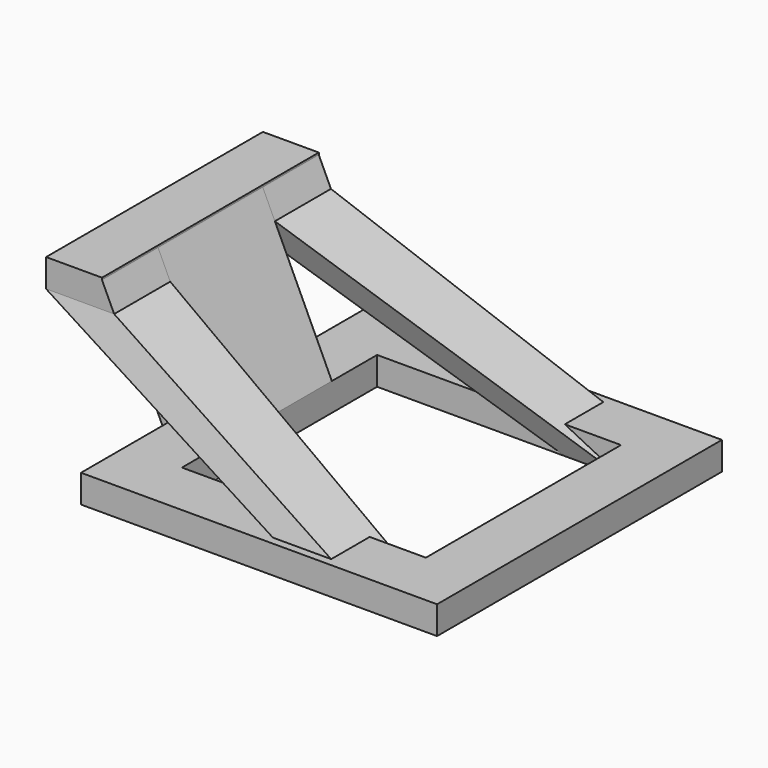
from build123d import *

# Parameters (mm, degrees)
F0_W        = 12
F0_H        = 12
F0_H_2      = 28
F1_DEPTH    = 6
F3_W        = 28
F3_H        = 35
F4_DEPTH    = 13.2
F6_W        = 11.9632627889
F6_H        = 28
F9_DEPTH    = 15
F11_DEPTH   = 15
F12_DEPTH   = 0.42144
F9_FACE_W   = 14.5645885303
F9_FACE_H   = 15
F11_FACE1_W = 14.5645885303
F11_FACE1_H = 15


with BuildPart() as f1:
    # F0 (on Top) → F1 (new body)
    with BuildSketch(Plane.XY):
        Polygon((38.1, -38.1), (38.1, 38.1), (26.1, 38.1), (26.1, 26.1), (26.1, -26.1), (26.1, -38.1), align=None)
        with Locations((20.1, 32.1)):
            Rectangle(F0_W, F0_H)
        Polygon((14.1, 26.1), (14.1, 38.1), (-13.07, 38.1), (-26.1, 38.1), (-26.1, 26.1), (-12.9487672821, 26.1), align=None)
        with Locations((20.1, -32.1)):
            Rectangle(F0_W, F0_H)
        Polygon((-13.07, -38.1), (14.1, -38.1), (14.1, -26.1), (-12.9487672821, -26.1), (-26.1, -26.1), (-26.1, -38.1), align=None)
        Polygon((-26.1, 26.1), (-26.1, 38.1), (-38.1, 38.1), (-38.1, 14), (-26.1, 14), align=None)
        Polygon((-38.1, -38.1), (-26.1, -38.1), (-26.1, -26.1), (-26.1, -14), (-38.1, -14), (-38.1, -20), (-38.1, -23), align=None)
        with Locations((-32.1, 0)):
            Rectangle(F0_W, F0_H_2)
    extrude(amount=F1_DEPTH)

    # F3 (on face) → F4 (join)
    with BuildSketch(Plane(origin=(-19.1402449771, 0, -8.9252428118), x_dir=(0, -1, 0), z_dir=(-0.906307787, 0, -0.4226182617))):
        with Locations((0, 33.9681833537)):
            Rectangle(F3_W, F3_H)
    extrude(amount=F4_DEPTH)

    # F6 (on face) → F7 (join, up to the next surface of F1)
    with BuildSketch(Plane.XY.offset(37.7207725463)):
        with Locations((-46.8732705554, 0)):
            Rectangle(F6_W, F6_H)
    extrude(until=Until.NEXT, dir=(0, 0, -1))

    # F8 (on face) → F9 (join)
    with BuildSketch(Plane(origin=(0, 14, 0), x_dir=(-1, 0, 0), z_dir=(0, 1, 0))):
        Polygon((38.2903134195, 32.1422114913), (52.8549019498, 32.1422114913), (52.8549019498, 37.7207725463), (40.8916391609, 37.7207725463), align=None)
    extrude(amount=F9_DEPTH)

    # F10 (on face) → F11 (join)
    with BuildSketch(Plane.XZ.offset(14)):
        Polygon((-52.8549019498, 37.7207725463), (-52.8549019498, 32.1422114913), (-38.2903134195, 32.1422114913), (-40.8916391609, 37.7207725463), align=None)
    extrude(amount=F11_DEPTH)

    # F12 (add): a face of the model
    f12_faces = [f1.faces().sort_by_distance(p)[0] for p in [
        (-46.8732705554, 0, 37.7207725463),
    ]]
    extrude(f12_faces, amount=F12_DEPTH)

    # F9_face (on face) → F13 section 0
    with BuildSketch(Plane(origin=(-45.5726076847, 21.5, 32.1422114913), x_dir=(1, 0, 0), z_dir=(0, 0, -1))):
        Rectangle(F9_FACE_W, F9_FACE_H)
    # F0 (on Top) → F13 section 1
    with BuildSketch(Plane.XY):
        with Locations((20.1, 32.1)):
            Rectangle(F0_W, F0_H)
    loft()

    # F11_face1 (on face) → F14 section 0
    with BuildSketch(Plane(origin=(-45.5726076847, -21.5, 32.1422114913), x_dir=(1, 0, 0), z_dir=(0, 0, -1))):
        Rectangle(F11_FACE1_W, F11_FACE1_H)
    # F0 (on Top) → F14 section 1
    with BuildSketch(Plane.XY):
        with Locations((20.1, -32.1)):
            Rectangle(F0_W, F0_H)
    loft()


solid = f1.part
